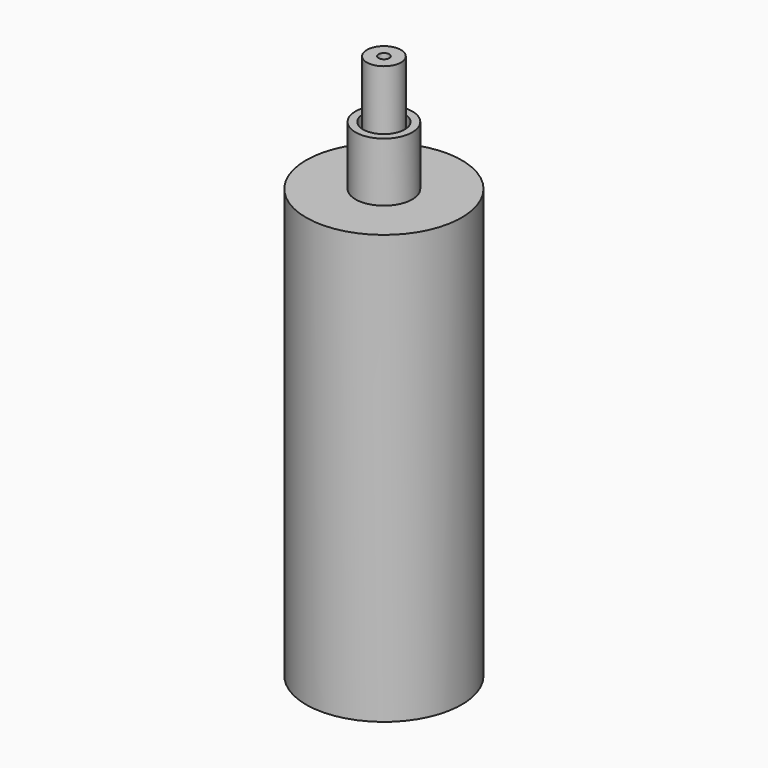
from build123d import *


with BuildPart() as f1:
    # F0 (on Front) → F1 (revolve)
    with BuildSketch(Plane.XZ):
        with BuildLine():
            ThreePointArc((0, 56), (-2.44949, 54.732051), (-2.828427, 52))
            ThreePointArc((-2.828427, 52), (-1.732051, 50.55051), (0, 50))
            Line((0, 50), (0, 56))
        make_face()
        Polygon((-10, 0), (-10, 50), (-2.828427, 50), (-2.828427, 52), (-6.16218, 52), (-6.16218, 62.276553), (-3.210962, 62.276553), (-3.210962, 73.137768), (-4.384063, 73.137768), (-4.384063, 64.025477), (-12.007383, 64.025477), (-12.007383, -2.14729), (0, -2.14729), (0, 0), align=None)
        Polygon((-0.825494, 82.0577), (-2.634038, 82.0577), (-2.634038, 61.468102), (-5.346857, 61.468102), (-5.346857, 56.042466), (-3.677429, 56.042466), (-3.677429, 59.937797), (-0.825494, 59.937797), align=None)
    revolve(axis=Axis((0, 0, 20.237608), (0, 0, 1)))


solid = f1.part
